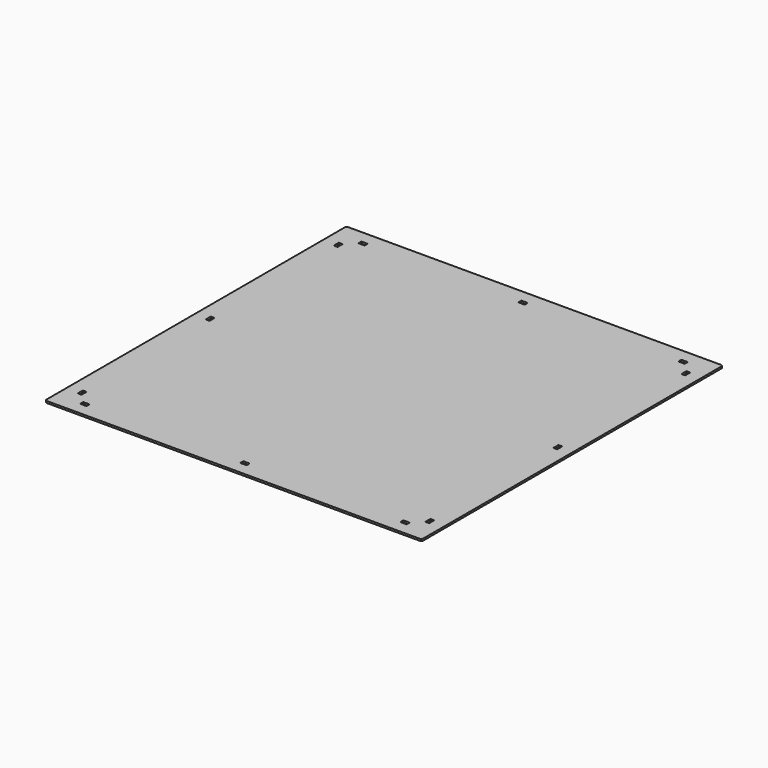
from build123d import *

# Parameters (mm, degrees)
F0_W     = 600
F0_H     = 600
F0_W_2   = 10
F0_H_2   = 6
F0_W_3   = 6
F0_H_3   = 10
F1_DEPTH = 3
F2_R     = 3


with BuildPart() as f1:
    # F0 (on Top) → F1 (new body)
    with BuildSketch(Plane.XY):
        Rectangle(F0_W, F0_H)
        with Locations((-255, -277)):
            Rectangle(F0_W_2, F0_H_2, mode=Mode.SUBTRACT)
        with Locations((-277, -255)):
            Rectangle(F0_W_3, F0_H_3, mode=Mode.SUBTRACT)
        with Locations((0, -277)):
            Rectangle(F0_W_2, F0_H_2, mode=Mode.SUBTRACT)
        with Locations((255, -277)):
            Rectangle(F0_W_2, F0_H_2, mode=Mode.SUBTRACT)
        with Locations((277, -255)):
            Rectangle(F0_W_3, F0_H_3, mode=Mode.SUBTRACT)
        with Locations((-277, 0)):
            Rectangle(F0_W_3, F0_H_3, mode=Mode.SUBTRACT)
        with Locations((-277, 255)):
            Rectangle(F0_W_3, F0_H_3, mode=Mode.SUBTRACT)
        with Locations((-255, 277)):
            Rectangle(F0_W_2, F0_H_2, mode=Mode.SUBTRACT)
        with Locations((277, 0)):
            Rectangle(F0_W_3, F0_H_3, mode=Mode.SUBTRACT)
        with Locations((0, 277)):
            Rectangle(F0_W_2, F0_H_2, mode=Mode.SUBTRACT)
        with Locations((277, 255)):
            Rectangle(F0_W_3, F0_H_3, mode=Mode.SUBTRACT)
        with Locations((255, 277)):
            Rectangle(F0_W_2, F0_H_2, mode=Mode.SUBTRACT)
    extrude(amount=F1_DEPTH)

    # F2
    f2_edges = [f1.edges().sort_by_distance(p)[0] for p in [
        (300, 300, 1.5),
        (300, -300, 1.5),
        (-300, -300, 1.5),
        (-300, 300, 1.5),
    ]]
    fillet(f2_edges, radius=F2_R)


solid = f1.part
